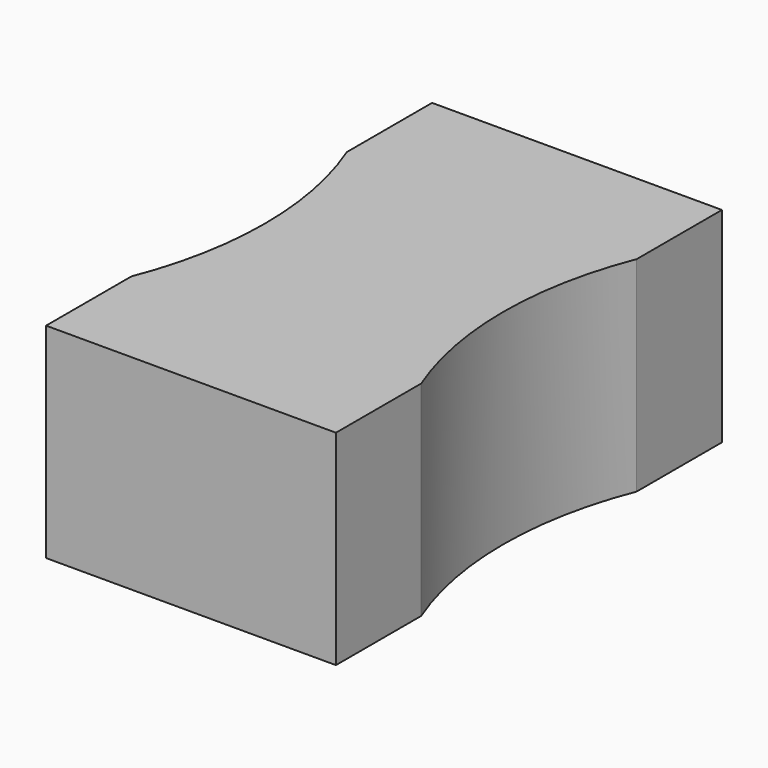
from build123d import *

# Parameters (mm, degrees)
F0_W     = 15.44
F0_H     = 10.9
F1_DEPTH = 25.7
F2_R     = 19.5
F3_DEPTH = 10.901


with BuildPart() as f1:
    # F0 (on Front) → F1 (new body)
    with BuildSketch(Plane.XZ):
        with Locations((-7.72, 5.45)):
            Rectangle(F0_W, F0_H)
    extrude(amount=F1_DEPTH)

    # F2 (on Top) → F3 (cut, through all)
    with BuildSketch(Plane.XY):
        with Locations((-33.573281, -12.85)):
            Circle(F2_R)
        with Locations((18.133281, -12.85)):
            Circle(F2_R)
    extrude(amount=F3_DEPTH, mode=Mode.SUBTRACT)


solid = f1.part
